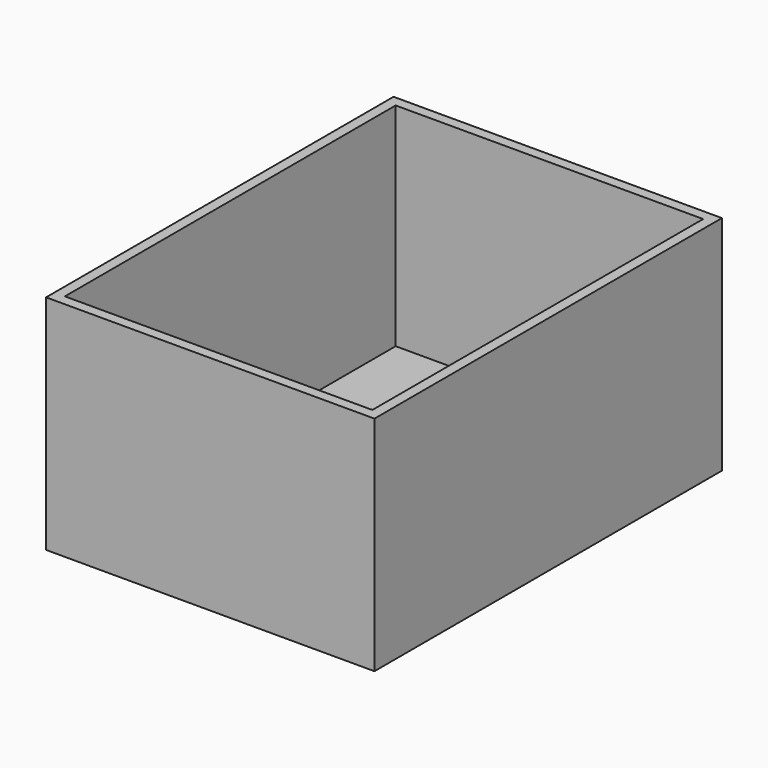
from build123d import *

# Parameters (mm, degrees)
F0_W     = 73.7
F0_H     = 99.1
F1_DEPTH = 2.5
F0_W_2   = 78.7
F0_H_2   = 104.1
F2_DEPTH = 53.3


with BuildPart() as f1:
    # F0 (on Top) → F1 (new body)
    with BuildSketch(Plane.XY):
        with Locations((-15.313851, 66.466596)):
            Rectangle(F0_W, F0_H)
    extrude(amount=F1_DEPTH)

    # F0 (on Top) → F2 (join)
    with BuildSketch(Plane.XY):
        with Locations((-15.313851, 66.466596)):
            Rectangle(F0_W_2, F0_H_2)
        with Locations((-15.313851, 66.466596)):
            Rectangle(F0_W, F0_H, mode=Mode.SUBTRACT)
    extrude(amount=F2_DEPTH)


solid = f1.part
